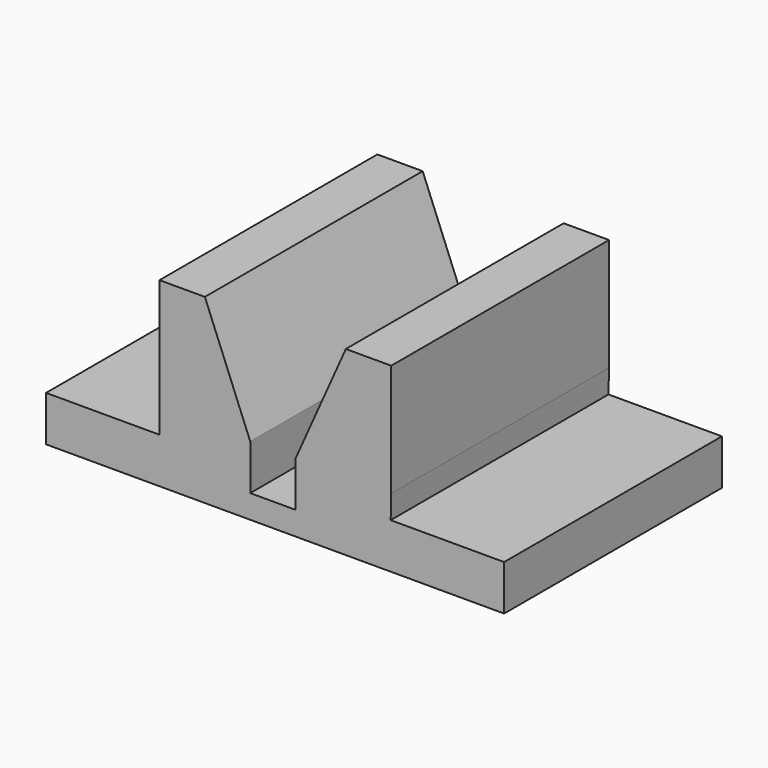
from build123d import *

# Parameters (mm, degrees)
F0_W      = 152.4
F0_H      = 50.8
F1_DEPTH  = 76.2
F2_W      = 31.75
F2_H      = 38.1
F3_DEPTH  = 76.201
F5_DEPTH  = 76.201
F6_W      = 55.7977713972
F6_H      = 31.5170145214
F7_DEPTH  = 76.201
F9_DEPTH  = 76.201
F10_W     = 24.1939584613
F10_H     = 12.7
F11_DEPTH = 76.201


with BuildPart() as f1:
    # F0 (on Front) → F1 (new body)
    with BuildSketch(Plane.XZ):
        with Locations((0.3563324094, 6.1170145214)):
            Rectangle(F0_W, F0_H)
    extrude(amount=F1_DEPTH)

    # F2 (on face) → F3 (cut, through all)
    with BuildSketch(Plane.XZ.offset(76.2)):
        with Locations((-59.9686675906, 12.4670145214)):
            Rectangle(F2_W, F2_H)
    extrude(amount=-F3_DEPTH, mode=Mode.SUBTRACT)

    # F4 (on face) → F5 (cut, through all)
    with BuildSketch(Plane.XZ.offset(76.2)):
        Polygon((8.0585610121, 31.5170145214), (-31.3936675906, 31.5170145214), (-18.6936675906, 0), (-18.6936675906, -12.7), (-5.9936675906, -12.7), (-5.9936675906, 0), align=None)
    extrude(amount=-F5_DEPTH, mode=Mode.SUBTRACT)

    # F6 (on face) → F7 (cut, through all)
    with BuildSketch(Plane.XZ.offset(76.2)):
        with Locations((48.6574467108, 15.7585072607)):
            Rectangle(F6_W, F6_H)
    extrude(amount=-F7_DEPTH, mode=Mode.SUBTRACT)

    # F8 (on face) → F9 (cut, through all)
    with BuildSketch(Plane.XZ.offset(76.2)):
        Polygon((20.7585610121, 0), (20.6123739481, -6.5829854786), (20.70865446, -6.5829854786), align=None)
        Polygon((76.5563324094, 0), (20.7585610121, 0), (20.70865446, -6.5829854786), (76.5563324094, -6.5829854786), align=None)
    extrude(amount=-F9_DEPTH, mode=Mode.SUBTRACT)

    # F10 (on face) → F11 (cut, through all)
    with BuildSketch(Plane.XZ.offset(76.2)):
        with Locations((64.4593531787, -12.9329854786)):
            Rectangle(F10_W, F10_H)
    extrude(amount=-F11_DEPTH, mode=Mode.SUBTRACT)


solid = f1.part
